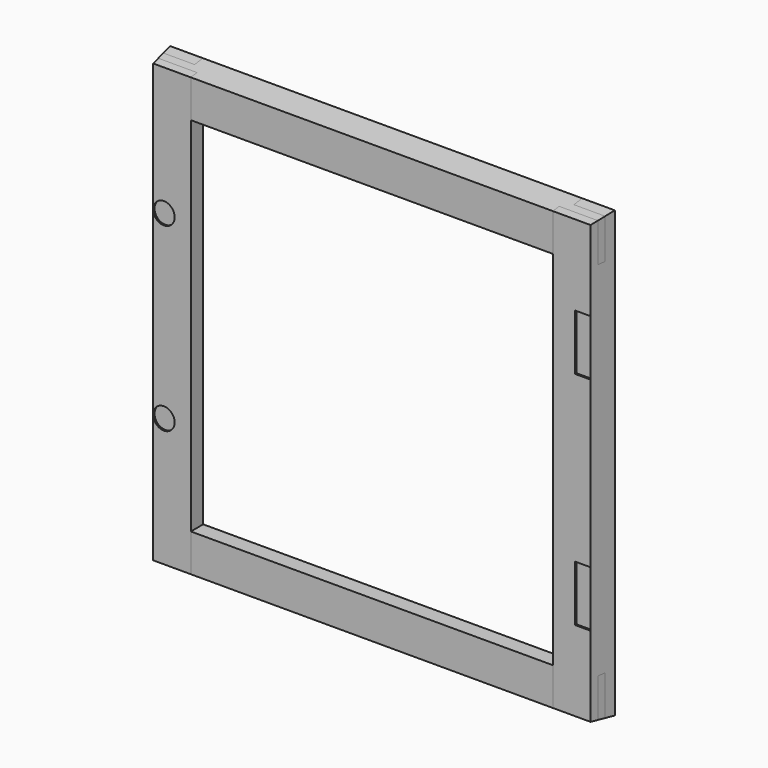
from build123d import *

# Parameters (mm, degrees)
F3_DEPTH       = 258.5
F5_DEPTH       = 258.5
F7_DEPTH       = 258.501
F7_DEPTH_BACK  = 258.501
F9_DEPTH       = 258.501
F9_DEPTH_BACK  = 258.501
F11_DEPTH      = 3
F12_W          = 18
F12_H          = 65
F13_DEPTH      = 2
F14_R          = 12.5
F15_DEPTH      = 2
F17_W          = 64.824461937
F17_H          = 59.0755194426
F18_DEPTH      = 3
F18_DEPTH_BACK = 6


with BuildPart() as f3:
    # F2 (on Top) → F3 (new body, symmetric)
    with BuildSketch(Plane.XY):
        Polygon((-258.5, 0), (-254.2837749589, -30), (-210.5, -30), (-210.5, -12), (-220.5, -12), (-220.5, 0), align=None)
    extrude(amount=F3_DEPTH, both=True)


with BuildPart() as f3b:
    # F2 (on Top) → F3, piece 2 (new body, symmetric)
    with BuildSketch(Plane.XY):
        Polygon((220.5, -12), (210.5, -12), (210.5, -30), (254.2837749589, -30), (258.5, 0), (220.5, 0), align=None)
    extrude(amount=F3_DEPTH, both=True)


with BuildPart() as f5:
    # F4 (on Right) → F5 (new body, symmetric)
    with BuildSketch(Plane.YZ):
        Polygon((0, 258.5), (-30, 254.2837749589), (-30, 210.5), (-12, 210.5), (-12, 220.5), (0, 220.5), align=None)
    extrude(amount=F5_DEPTH, both=True)


with BuildPart() as f5b:
    # F4 (on Right) → F5, piece 2 (new body, symmetric)
    with BuildSketch(Plane.YZ):
        Polygon((0, -220.5), (-12, -220.5), (-12, -210.5), (-30, -210.5), (-30, -254.2837749589), (0, -258.5), align=None)
    extrude(amount=F5_DEPTH, both=True)


with BuildPart() as f7_tool:
    # F6 (on Right) → F7 (new body, two sides)
    with BuildSketch(Plane.YZ) as f7_sk:
        Polygon((0, -295.9069610134), (24.4672827957, -261.938652347), (-48.7457476345, -251.6492319393), (-48.7457476345, -295.9069610134), align=None)
        Polygon((-47.852296514, 251.7747983055), (25.8951478905, 262.1393256993), (26.3699738853, 270.3554644987), (-47.852296514, 276.1369097592), align=None)
    extrude(amount=-F7_DEPTH)
    extrude(f7_sk.sketch, amount=F7_DEPTH_BACK)


with BuildPart() as f3_1:
    add(f3.part)

    # F7: cut by f7_tool
    add(f7_tool.part, mode=Mode.SUBTRACT)

    # F10 (on face) → F11 (cut)
    with BuildSketch(Plane(origin=(-253.4930742, -35.6261282393, 0), x_dir=(0.139173101, -0.9902680687, 0), z_dir=(-0.9902680687, -0.139173101, 0))):
        with BuildLine():
            Line((-10.9762465982, 124.059534058), (-10.9762465982, 191.059534058))
            ThreePointArc((-10.9762465982, 191.059534058), (-20.9762465982, 201.059534058), (-30.9762465982, 191.059534058))
            Line((-30.9762465982, 191.059534058), (-30.9762465982, 157.059534058))
            Line((-30.9762465982, 157.059534058), (-35.9762465982, 157.059534058))
            Line((-35.9762465982, 157.059534058), (-35.9762465982, 114.059534058))
            Line((-35.9762465982, 114.059534058), (-20.9762465982, 114.059534058))
            ThreePointArc((-20.9762465982, 114.059534058), (-13.9051787863, 116.9884662461), (-10.9762465982, 124.059534058))
        make_face()
        with BuildLine():
            ThreePointArc((-10.9762465982, -124.940465942), (-20.9762465982, -114.940465942), (-30.9762465982, -124.940465942))
            Line((-30.9762465982, -124.940465942), (-30.9762465982, -158.940465942))
            Line((-30.9762465982, -158.940465942), (-35.9762465982, -158.940465942))
            Line((-35.9762465982, -158.940465942), (-35.9762465982, -201.940465942))
            Line((-35.9762465982, -201.940465942), (-20.9762465982, -201.940465942))
            ThreePointArc((-20.9762465982, -201.940465942), (-13.9051787863, -199.0115337539), (-10.9762465982, -191.940465942))
            Line((-10.9762465982, -191.940465942), (-10.9762465982, -124.940465942))
        make_face()
    extrude(amount=-F11_DEPTH, mode=Mode.SUBTRACT)

    # F14 (on face) → F15 (cut)
    with BuildSketch(Plane.XZ.offset(30)):
        with Locations((-241.7837749589, 105)):
            Circle(F14_R)
        with Locations((-241.7837749589, -105)):
            Circle(F14_R)
    extrude(amount=-F15_DEPTH, mode=Mode.SUBTRACT)


with BuildPart() as f3b_1:
    add(f3b.part)

    # F7: cut by f7_tool
    add(f7_tool.part, mode=Mode.SUBTRACT)

    # F12 (on face) → F13 (cut)
    with BuildSketch(Plane.XZ.offset(30)):
        with Locations((245.2837749589, -128.5)):
            Rectangle(F12_W, F12_H)
        with Locations((245.2837749589, 128.5)):
            Rectangle(F12_W, F12_H)
    extrude(amount=-F13_DEPTH, mode=Mode.SUBTRACT)


with BuildPart() as f9_tool:
    # F8 (on Top) → F9 (new body, two sides)
    with BuildSketch(Plane.XY) as f9_sk:
        Polygon((260.4637017772, 13.9724641694), (251.4188319683, -50.3851286117), (300.2003759384, -48.7030035797), (300.2003759384, 13.9724641694), align=None)
        Polygon((-297.8262491496, -49.207656216), (-251.6194172175, -48.9578904026), (-261.5749153306, 21.8791594421), (-297.8262491496, 21.8791594421), align=None)
    extrude(amount=-F9_DEPTH)
    extrude(f9_sk.sketch, amount=F9_DEPTH_BACK)


with BuildPart() as f5_1:
    add(f5.part)

    # F9: cut by f9_tool
    add(f9_tool.part, mode=Mode.SUBTRACT)


with BuildPart() as f5b_1:
    add(f5b.part)

    # F9: cut by f9_tool
    add(f9_tool.part, mode=Mode.SUBTRACT)


with BuildPart() as f18:
    # F17 (on mid) → F18 (new body, two sides)
    with BuildSketch(Plane.XZ.offset(15)) as f18_sk:
        with Locations((242.9122309685, -240.0377597213)):
            Rectangle(F17_W, F17_H)
    extrude(amount=-F18_DEPTH)
    extrude(f18_sk.sketch, amount=F18_DEPTH_BACK)


with BuildPart() as f19_1:
    # F19: instance of F18
    add(f18.part.mirror(Plane.XY))


with BuildPart() as f20_1:
    # F20: instance of F18
    add(f18.part.mirror(Plane.YZ))


with BuildPart() as f20_2:
    # F20: instance of F19_1
    add(f19_1.part.mirror(Plane.YZ))


with BuildPart() as f3b_2:
    add(f3b_1.part)

    # F21: cut F18, F19_1, F20_2, F20_1
    add(f18.part, mode=Mode.SUBTRACT)
    add(f19_1.part, mode=Mode.SUBTRACT)
    add(f20_2.part, mode=Mode.SUBTRACT)
    add(f20_1.part, mode=Mode.SUBTRACT)


with BuildPart() as f3_2:
    add(f3_1.part)

    # F21: cut F18, F19_1, F20_2, F20_1
    add(f18.part, mode=Mode.SUBTRACT)
    add(f19_1.part, mode=Mode.SUBTRACT)
    add(f20_2.part, mode=Mode.SUBTRACT)
    add(f20_1.part, mode=Mode.SUBTRACT)


with BuildPart() as f5b_2:
    add(f5b_1.part)

    # F22: cut F3b, F3
    add(f3b_2.part, mode=Mode.SUBTRACT)
    add(f3_2.part, mode=Mode.SUBTRACT)


with BuildPart() as f5_2:
    add(f5_1.part)

    # F22: cut F3b, F3
    add(f3b_2.part, mode=Mode.SUBTRACT)
    add(f3_2.part, mode=Mode.SUBTRACT)


solid = Compound([f3b_2.part, f3_2.part, f5b_2.part, f5_2.part])
